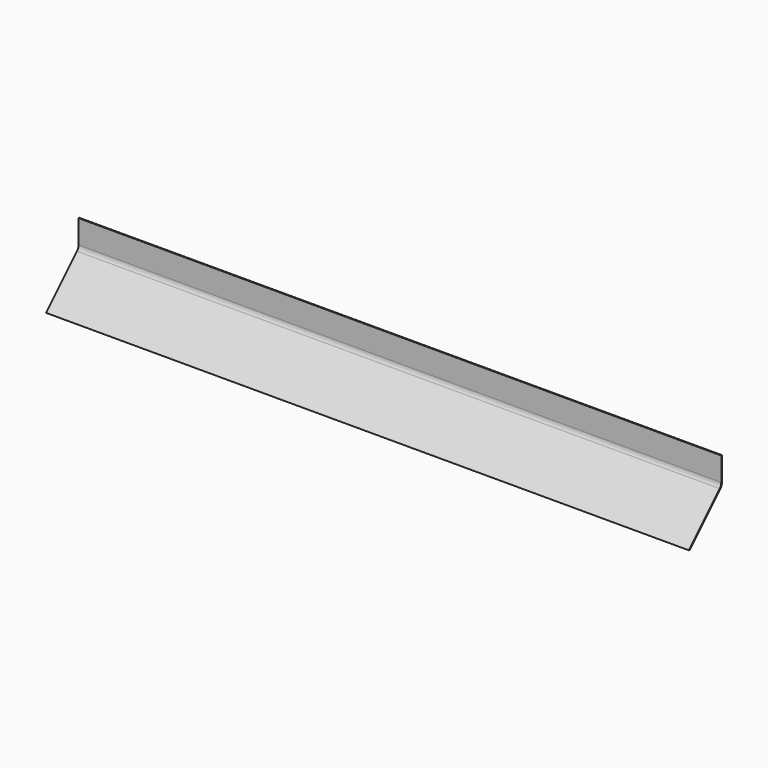
from build123d import *

# Parameters (mm, degrees)
F1_DEPTH      = 609.6
F1_DEPTH_BACK = 609.6


with BuildPart() as f1:
    # F0 (on Right) → F1 (new body, two sides)
    with BuildSketch(Plane.YZ) as f1_sk:
        with BuildLine():
            Line((0, 5.260512), (0, 50.8))
            Line((0, 50.8), (-1.5875, 50.8))
            Line((-1.5875, 50.8), (-1.5875, 5.918076))
            ThreePointArc((-1.5875, 5.918076), (-2.55423, 1.057997), (-5.307244, -3.06218))
            Line((-5.307244, -3.06218), (-78.445064, -76.2))
            Line((-78.445064, -76.2), (-76.2, -76.2))
            Line((-76.2, -76.2), (-3.719744, -3.719744))
            ThreePointArc((-3.719744, -3.719744), (-0.96673, 0.400433), (0, 5.260512))
        make_face()
    extrude(amount=F1_DEPTH)
    extrude(f1_sk.sketch, amount=-F1_DEPTH_BACK)


solid = f1.part
